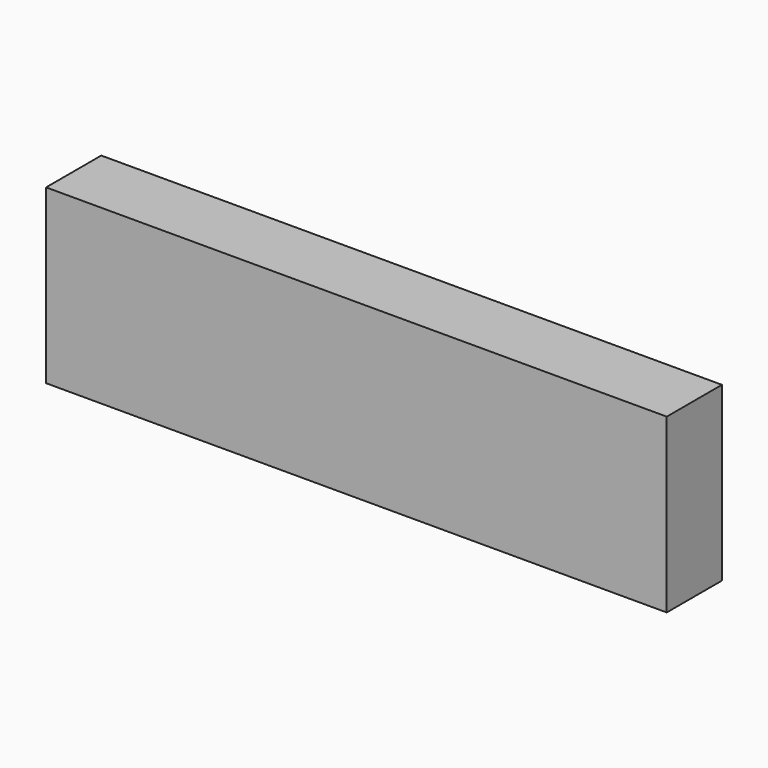
from build123d import *

# Parameters (mm, degrees)
SKETCH_W      = 180
SKETCH_H      = 20
EXTRUDE_DEPTH = 50


with BuildPart() as part:
    # Sketch → Extrude (new body)
    with BuildSketch(Plane.XY):
        Rectangle(SKETCH_W, SKETCH_H)
    extrude(amount=EXTRUDE_DEPTH)


solid = part.part
